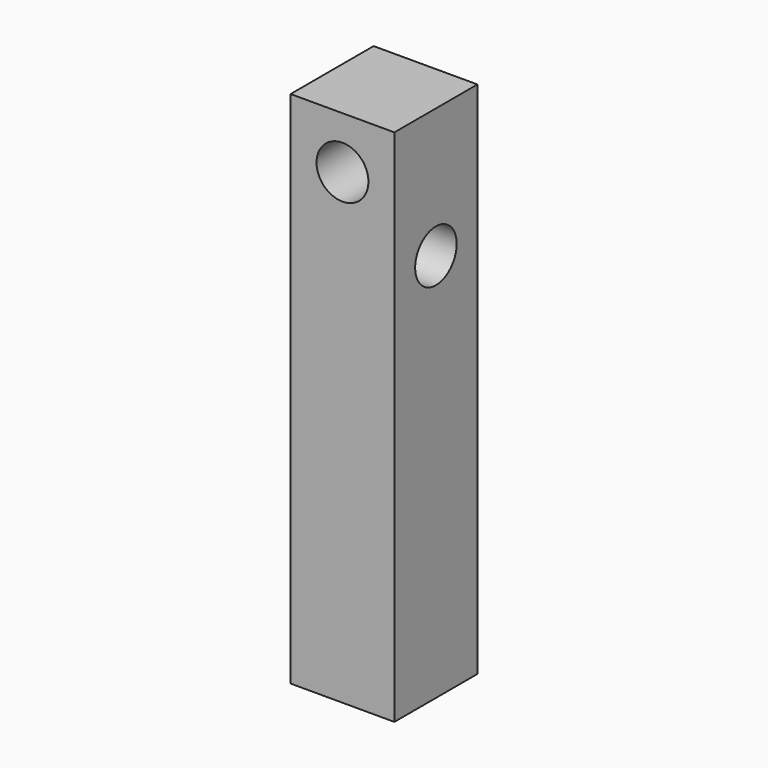
from build123d import *

# Parameters (mm, degrees)
F0_W     = 2
F0_H     = 10
F1_DEPTH = 2
F3_D     = 1
F3_DEPTH = 8
F5_D     = 1
F5_DEPTH = 8


with BuildPart() as f1:
    # F0 (on Front) → F1 (new body)
    with BuildSketch(Plane.XZ):
        Rectangle(F0_W, F0_H)
    extrude(amount=F1_DEPTH)

    # F3
    with Locations(Plane.XZ.offset(2)):
        with Locations((0, 4)):
            Hole(F3_D / 2, depth=F3_DEPTH)

    # F5
    with Locations(Plane.YZ.offset(1)):
        with Locations((-1, 2.5)):
            Hole(F5_D / 2, depth=F5_DEPTH)


solid = f1.part
